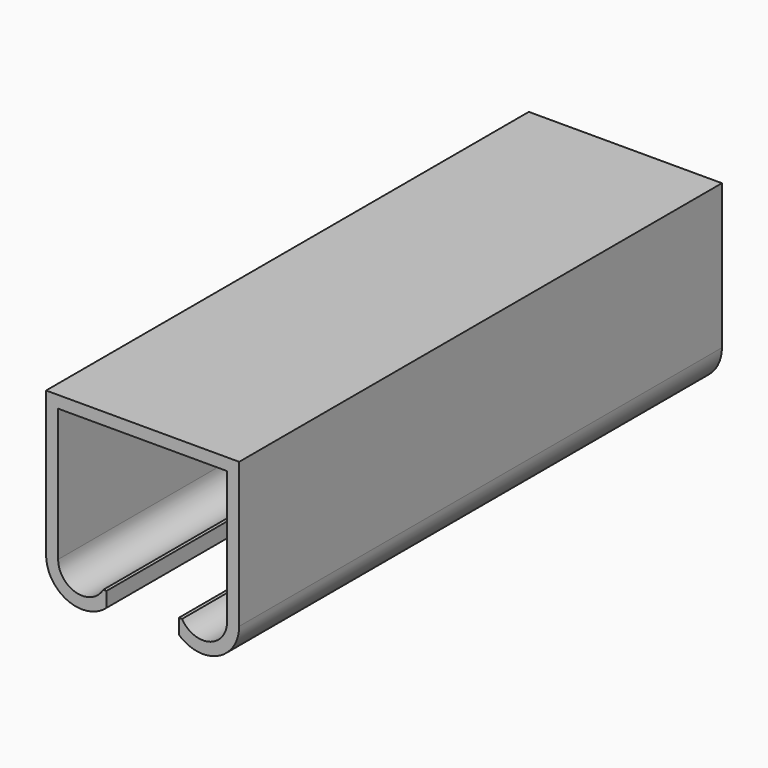
from build123d import *

# Parameters (mm, degrees)
F1_DEPTH = 50


with BuildPart() as f1:
    # F0 (on Front) → F1 (new body, symmetric)
    with BuildSketch(Plane.XZ):
        with BuildLine():
            Line((16, 30), (-16, 30))
            Line((-16, 30), (-16, 6))
            ThreePointArc((-16, 6), (-12.4494897428, 0.5227744249), (-6, 1.527864045))
            Line((-6, 1.527864045), (-6, 4))
            Line((-6, 4), (-6.5358986055, 4))
            ThreePointArc((-6.5358986055, 4), (-11.0352761842, 2.1362968937), (-13.9999998089, 6))
            Line((-13.9999998089, 6), (-13.9999998089, 27.9999998089))
            Line((-13.9999998089, 27.9999998089), (13.9999998089, 27.9999998089))
            Line((13.9999998089, 27.9999998089), (13.9999998089, 6))
            ThreePointArc((13.9999998089, 6), (11.0352761842, 2.1362968937), (6.5358986055, 4))
            Line((6.5358986055, 4), (6, 4))
            Line((6, 4), (6, 1.527864045))
            ThreePointArc((6, 1.527864045), (12.4494897428, 0.5227744249), (16, 6))
            Line((16, 6), (16, 30))
        make_face()
    extrude(amount=F1_DEPTH, both=True)


solid = f1.part
